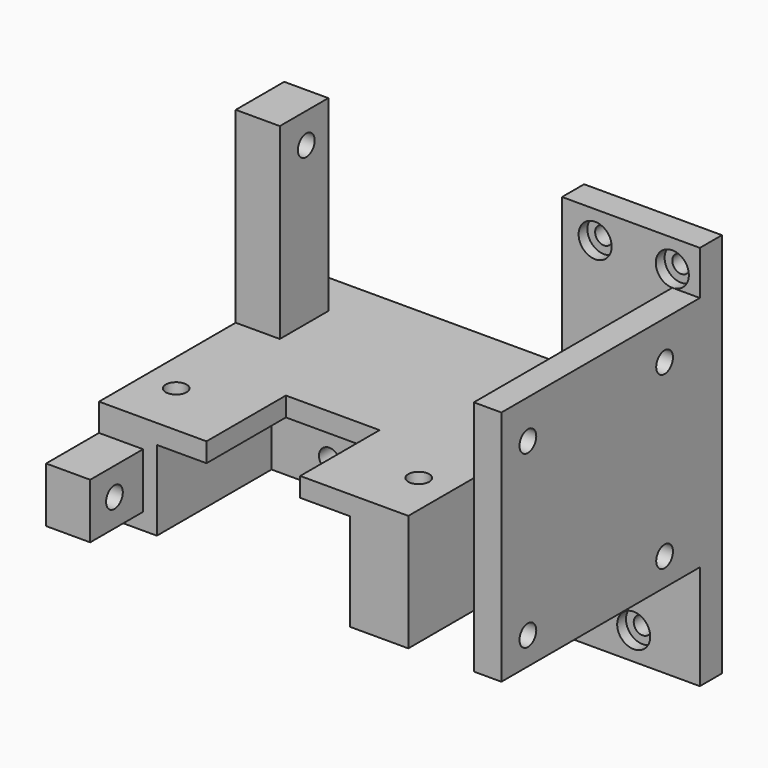
from build123d import *

# Parameters (mm, degrees)
PAD_DEPTH            = 70
SKETCH001_W          = 11.887794
SKETCH001_H          = 46.78
POCKET_DEPTH         = 70.001
POCKET001_DEPTH      = 30
SKETCH003_R          = 1.9
POCKET002_DEPTH      = 40.001
SKETCH004_W          = 17
SKETCH004_H          = 23.314381
POCKET003_DEPTH      = 40.001
SKETCH005_W          = 35
SKETCH005_H          = 57.974789
POCKET004_DEPTH      = 26
SKETCH006_W          = 45.255611
SKETCH006_H          = 30.428207
POCKET005_DEPTH      = 28
POCKET005_DEPTH_BACK = -100
SKETCH007_W          = 26.242121
SKETCH007_H          = 29.741062
POCKET006_DEPTH      = 45
SKETCH008_W          = 15.625622
SKETCH008_H          = 14.392597
SKETCH008_W_2        = 24.610352
SKETCH008_H_2        = 31.67345
POCKET007_DEPTH      = 45
SKETCH009_R          = 1.9
POCKET008_DEPTH      = 13
SKETCH010_R          = 1.6
POCKET009_DEPTH      = 5
SKETCH014_W          = 10
SKETCH014_H          = 15
PAD001_DEPTH         = 23
SKETCH015_W          = 11
SKETCH015_H          = 38.184422
SKETCH015_W_2        = 19.881198
SKETCH015_H_2        = 10
PAD002_DEPTH         = 8
SKETCH013_R          = 1.9
POCKET010_DEPTH      = 17
SKETCH011_R          = 1.9
POCKET011_DEPTH      = 15
PAD003_DEPTH         = 5
SKETCH017_R          = 3
POCKET012_DEPTH      = 2


with BuildPart() as part:
    # Sketch → Pad (new body)
    with BuildSketch(Plane.XY):
        Polygon((0, 0), (45, 0), (45, -50), (-28, -50), (-28, 0), align=None)
    extrude(amount=PAD_DEPTH)

    # Sketch001 (on Face7 of Pad) → Pocket (cut, through all)
    with BuildSketch(Plane.XY.offset(70)):
        with Locations((34.056103, -28.39)):
            Rectangle(SKETCH001_W, SKETCH001_H)
    extrude(amount=-POCKET_DEPTH, mode=Mode.SUBTRACT)

    # Sketch002 (on Face5 of Pocket) → Pocket001 (cut)
    with BuildSketch(Plane.XY.offset(70)):
        Polygon((30, -5), (30, -65.096024), (-40.783405, -65.096024), (-40.783405, 12.994774), (20, 12.994774), (20, -5), align=None)
    extrude(amount=-POCKET001_DEPTH, mode=Mode.SUBTRACT)

    # Sketch003 (on Face6 of Pocket001) → Pocket002 (cut, through all)
    with BuildSketch(Plane.XY.offset(40)):
        with Locations((-22, -40)):
            Circle(SKETCH003_R)
        with Locations((22, -40)):
            Circle(SKETCH003_R)
    extrude(amount=-POCKET002_DEPTH, mode=Mode.SUBTRACT)

    # Sketch004 (on Face6 of Pocket002) → Pocket003 (cut, through all)
    with BuildSketch(Plane.XY.offset(40)):
        with Locations((0, -43.65719)):
            Rectangle(SKETCH004_W, SKETCH004_H)
    extrude(amount=-POCKET003_DEPTH, mode=Mode.SUBTRACT)

    # Sketch005 (on Face13 of Pocket003) → Pocket004 (cut)
    with BuildSketch(Plane.XZ.offset(50)):
        with Locations((0, 7.512606)):
            Rectangle(SKETCH005_W, SKETCH005_H)
    extrude(amount=-POCKET004_DEPTH, mode=Mode.SUBTRACT)

    # Sketch006 (on Face11 of Pocket004) → Pocket005 (cut, two sides)
    with BuildSketch(Plane.XZ.offset(24)) as pocket005_sk:
        with Locations((-10.127806, 6.785896)):
            Rectangle(SKETCH006_W, SKETCH006_H)
    extrude(amount=-POCKET005_DEPTH, mode=Mode.SUBTRACT)
    extrude(pocket005_sk.sketch, amount=-POCKET005_DEPTH_BACK, mode=Mode.SUBTRACT)

    # Sketch007 (on Face12 of Pocket005) → Pocket006 (cut)
    with BuildSketch(Plane.XZ.offset(50)):
        with Locations((20.733142, 3.968048)):
            Rectangle(SKETCH007_W, SKETCH007_H)
    extrude(amount=-POCKET006_DEPTH, mode=Mode.SUBTRACT)

    # Sketch008 (on Face14 of Pocket006) → Pocket007 (cut)
    with BuildSketch(Plane.XZ.offset(50)):
        with Locations((42.909006, 69.196298)):
            Rectangle(SKETCH008_W, SKETCH008_H)
        with Locations((46.359665, 3.163275)):
            Rectangle(SKETCH008_W_2, SKETCH008_H_2)
    extrude(amount=-POCKET007_DEPTH, mode=Mode.SUBTRACT)

    # Sketch009 (on Face3 of Pocket007) → Pocket008 (cut)
    with BuildSketch(Plane.YZ.offset(45)):
        with Locations((-44, 55)):
            Circle(SKETCH009_R)
        with Locations((-13, 24)):
            Circle(SKETCH009_R)
        with Locations((-13, 55)):
            Circle(SKETCH009_R)
        with Locations((-44, 24)):
            Circle(SKETCH009_R)
    extrude(amount=-POCKET008_DEPTH, mode=Mode.SUBTRACT)

    # Sketch010 (on Face1 of Pocket008) → Pocket009 (cut)
    with BuildSketch(Plane(origin=(0, 0, 0), x_dir=(-1, 0, 0), z_dir=(0, 1, 0))):
        with Locations((-33, 5)):
            Circle(SKETCH010_R)
        with Locations((-40, 65)):
            Circle(SKETCH010_R)
        with Locations((-26, 65)):
            Circle(SKETCH010_R)
    extrude(amount=-POCKET009_DEPTH, mode=Mode.SUBTRACT)

    # Sketch014 (on Face4 of Pocket009) → Pad001 (join)
    with BuildSketch(Plane.YZ.offset(45)):
        with Locations((-30, 32.5)):
            Rectangle(SKETCH014_W, SKETCH014_H)
    extrude(amount=-PAD001_DEPTH)

    # Sketch015 (on Face29 of Pad001) → Pad002 (join)
    with BuildSketch(Plane(origin=(-28, 0, 0), x_dir=(0, -1, 0), z_dir=(-1, 0, 0))):
        with Locations((13.5, 54.907789)):
            Rectangle(SKETCH015_W, SKETCH015_H)
        with Locations((52.059401, 30)):
            Rectangle(SKETCH015_W_2, SKETCH015_H_2)
    extrude(amount=-PAD002_DEPTH)

    # Sketch013 (on Face19 of Pad002) → Pocket010 (cut)
    with BuildSketch(Plane.XZ.offset(24)):
        with Locations((-7, 27)):
            Circle(SKETCH013_R)
        with Locations((7, 27)):
            Circle(SKETCH013_R)
    extrude(amount=-POCKET010_DEPTH, mode=Mode.SUBTRACT)

    # Sketch011 (on Face29 of Pad002) → Pocket011 (cut)
    with BuildSketch(Plane(origin=(-28, 0, 0), x_dir=(0, -1, 0), z_dir=(-1, 0, 0))):
        with Locations((56.5, 30)):
            Circle(SKETCH011_R)
        with Locations((13, 68.5)):
            Circle(SKETCH011_R)
    extrude(amount=-POCKET011_DEPTH, mode=Mode.SUBTRACT)

    # Sketch016 (on Face1 of Pocket011) → Pad003 (join)
    with BuildSketch(Plane(origin=(0, 0, 0), x_dir=(-1, 0, 0), z_dir=(0, 1, 0))):
        Polygon((-12.5, 0), (5, 22), (-15.71, 22), align=None)
    extrude(amount=-PAD003_DEPTH)

    # Sketch017 (on Face28 of Pad003) → Pocket012 (cut)
    with BuildSketch(Plane.XZ.offset(5)):
        with Locations((26, 65)):
            Circle(SKETCH017_R)
        with Locations((33, 5)):
            Circle(SKETCH017_R)
        with Locations((40, 65)):
            Circle(SKETCH017_R)
    extrude(amount=-POCKET012_DEPTH, mode=Mode.SUBTRACT)


solid = part.part
